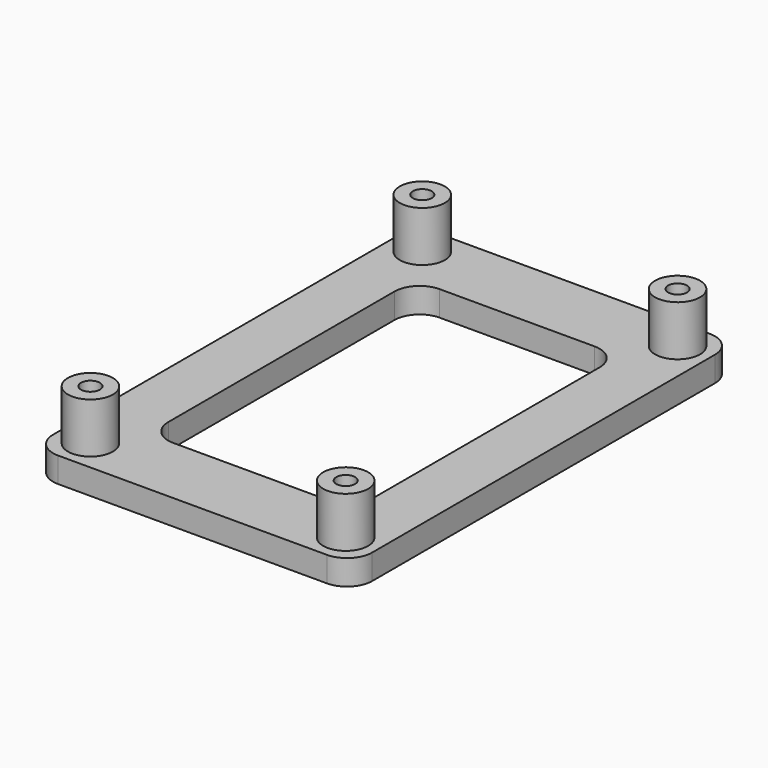
from build123d import *

# Parameters (mm, degrees)
F1_DEPTH = 2
F2_R     = 1.79
F2_R_2   = 0.75
F3_DEPTH = 4
F5_DEPTH = 2


with BuildPart() as f1:
    # F0 (on Top) → F1 (new body)
    with BuildSketch(Plane.XY):
        with BuildLine():
            Line((10.7, 19.05), (-10.7, 19.05))
            ThreePointArc((-10.7, 19.05), (-12.114214, 18.464214), (-12.7, 17.05))
            Line((-12.7, 17.05), (-12.7, -17.05))
            ThreePointArc((-12.7, -17.05), (-12.114214, -18.464214), (-10.7, -19.05))
            Line((-10.7, -19.05), (10.7, -19.05))
            ThreePointArc((10.7, -19.05), (12.114214, -18.464214), (12.7, -17.05))
            Line((12.7, -17.05), (12.7, 17.05))
            ThreePointArc((12.7, 17.05), (12.114214, 18.464214), (10.7, 19.05))
        make_face()
    extrude(amount=F1_DEPTH)

    # F2 (on face) → F3 (join)
    with BuildSketch(Plane.XY.offset(2)):
        with Locations((-10.16, 16.51)):
            Circle(F2_R)
        with Locations((-10.16, 16.51)):
            Circle(F2_R_2, mode=Mode.SUBTRACT)
        with Locations((10.16, 16.51)):
            Circle(F2_R)
        with Locations((10.16, 16.51)):
            Circle(F2_R_2, mode=Mode.SUBTRACT)
        with Locations((10.16, -16.51)):
            Circle(F2_R)
        with Locations((10.16, -16.51)):
            Circle(F2_R_2, mode=Mode.SUBTRACT)
        with Locations((-10.16, -16.51)):
            Circle(F2_R)
        with Locations((-10.16, -16.51)):
            Circle(F2_R_2, mode=Mode.SUBTRACT)
    extrude(amount=F3_DEPTH)

    # F4 (on face) → F5 (cut)
    with BuildSketch(Plane.XY.offset(2)):
        with BuildLine():
            Line((6.168252, 13.253161), (-6.168252, 13.253161))
            ThreePointArc((-6.168252, 13.253161), (-7.582466, 12.667374), (-8.168252, 11.253161))
            Line((-8.168252, 11.253161), (-8.168252, -11.253161))
            ThreePointArc((-8.168252, -11.253161), (-7.582466, -12.667374), (-6.168252, -13.253161))
            Line((-6.168252, -13.253161), (6.168252, -13.253161))
            ThreePointArc((6.168252, -13.253161), (7.582466, -12.667374), (8.168252, -11.253161))
            Line((8.168252, -11.253161), (8.168252, 11.253161))
            ThreePointArc((8.168252, 11.253161), (7.582466, 12.667374), (6.168252, 13.253161))
        make_face()
    extrude(amount=-F5_DEPTH, mode=Mode.SUBTRACT)


solid = f1.part
